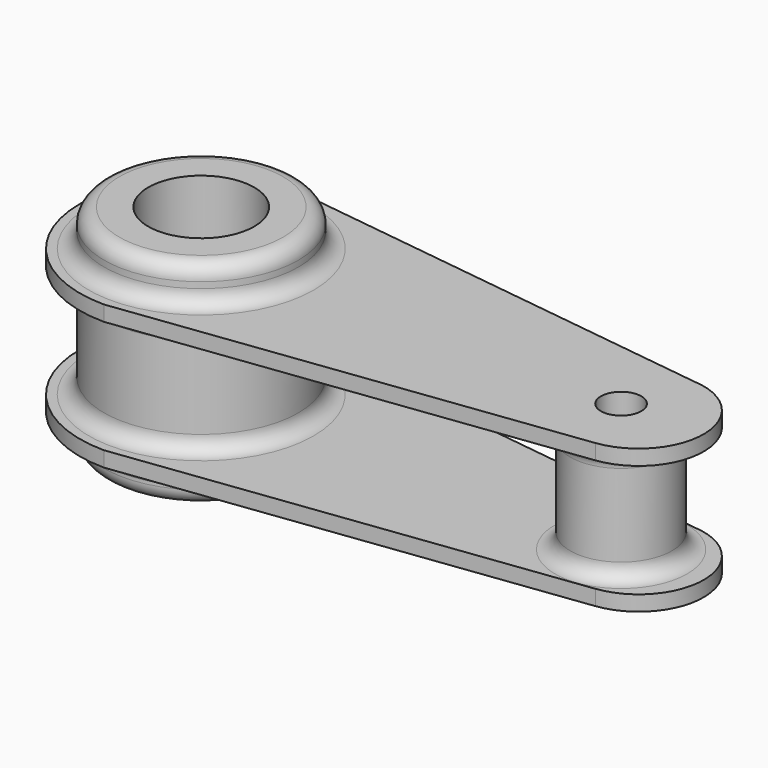
from build123d import *

# Parameters (mm, degrees)
PAD_DEPTH       = 5
SKETCH002_R     = 31.810592
PAD001_DEPTH    = 70
PAD002_DEPTH    = 5
SKETCH003_R     = 16.648627
PAD003_DEPTH    = 45
SKETCH004_R     = 17.354283
POCKET_DEPTH    = 70.001
SKETCH005_R     = 6.610945
POCKET001_DEPTH = 58.001
FILLET_R        = 5


with BuildPart() as part:
    # Sketch → Pad (new body)
    with BuildSketch(Plane.XY):
        with BuildLine():
            ThreePointArc((5.122654, 39.364624), (-39.608675, 2.639717), (-0.146353, -39.69627))
            Line((145.871874, -21.109258), (-0.146353, -39.69627))
            ThreePointArc((145.871874, -21.109258), (164.450413, 0.771868), (144.334432, 21.248515))
            Line((5.122654, 39.364624), (144.334432, 21.248515))
        make_face()
    extrude(amount=PAD_DEPTH)

    # Sketch002 (on Face6 of Pad) → Pad001 (join)
    with BuildSketch(Plane.XY.offset(17)):
        Circle(SKETCH002_R)
    extrude(amount=-PAD001_DEPTH)

    # Sketch001 → Pad002 (join)
    with BuildSketch(Plane.XY.offset(-42)):
        with BuildLine():
            ThreePointArc((5.122654, 39.364624), (-39.608675, 2.639717), (-0.146353, -39.69627))
            Line((145.871874, -21.109258), (-0.146353, -39.69627))
            ThreePointArc((145.871874, -21.109258), (164.450413, 0.771868), (144.334432, 21.248515))
            Line((5.122654, 39.364624), (144.334432, 21.248515))
        make_face()
    extrude(amount=PAD002_DEPTH)

    # Sketch003 (on Face5 of Pad002) → Pad003 (join)
    with BuildSketch(Plane.XY.offset(5)):
        with Locations((137.428085, 0)):
            Circle(SKETCH003_R)
    extrude(amount=-PAD003_DEPTH)

    # Sketch004 (on Face18 of Pad003) → Pocket (cut, through all)
    with BuildSketch(Plane.XY.offset(17)):
        Circle(SKETCH004_R)
    extrude(amount=-POCKET_DEPTH, mode=Mode.SUBTRACT)

    # Sketch005 (on Face5 of Pocket) → Pocket001 (cut, through all)
    with BuildSketch(Plane.XY.offset(5)):
        with Locations((137.42807, 0)):
            Circle(SKETCH005_R)
    extrude(amount=-POCKET001_DEPTH, mode=Mode.SUBTRACT)

    # Fillet
    fillet_edges = [part.edges().sort_by_distance(p)[0] for p in [
        (-31.810592, 0, 17),
        (-31.810592, 0, -53),
        (-31.810592, 0, -42),
        (-31.810592, 0, -37),
        (-31.810592, 0, 0),
        (-31.810592, 0, 5),
        (120.779458, 0, -37),
        (120.779458, 0, 0),
    ]]
    fillet(fillet_edges, radius=FILLET_R)


solid = part.part
